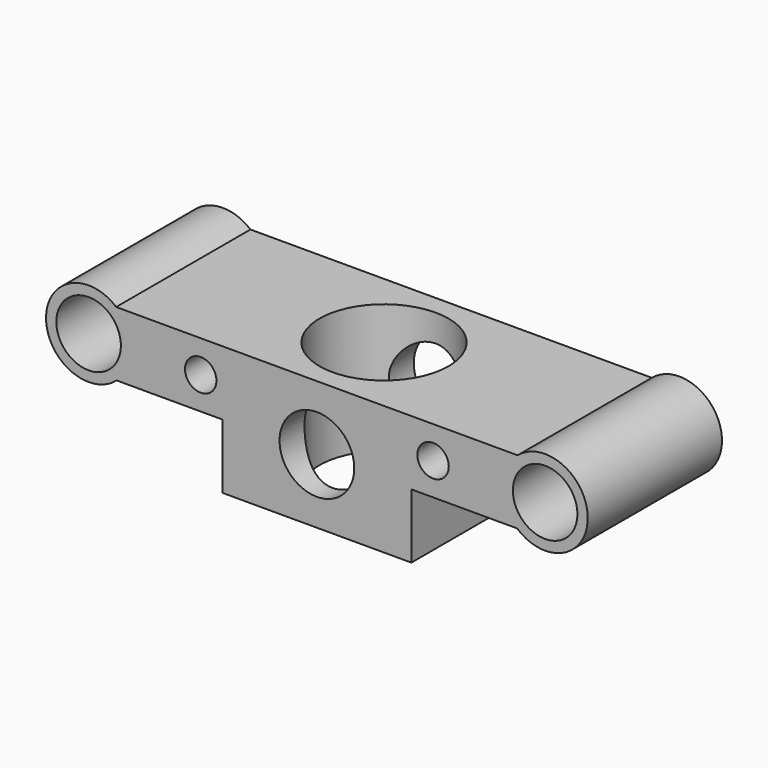
from build123d import *

# Parameters (mm, degrees)
SKETCH002_R     = 2.5
PAD002_DEPTH    = 13
SKETCH_W        = 35
SKETCH_H        = 13
PAD_DEPTH       = 5
SKETCH003_R     = 3.3
PAD003_DEPTH    = 13
SKETCH005_W     = 14.63643
SKETCH005_H     = 13
PAD004_DEPTH    = 5
SKETCH004_R     = 5
POCKET_DEPTH    = 10.001
SKETCH006_R     = 2.893254
POCKET001_DEPTH = 13.001
SKETCH007_R     = 1.218023
POCKET002_DEPTH = 103.479644


with BuildPart() as pad002:
    # Sketch002 → Pad002 (new body)
    with BuildSketch(Plane.XZ.offset(6.5)):
        with Locations((17.683945, 2.483897)):
            Circle(SKETCH002_R)
    extrude(amount=-PAD002_DEPTH)


with BuildPart() as part_mirroring001:
    # Part__Mirroring001: instance of Pad002
    add(pad002.part.mirror(Plane(origin=(0, 0, 2.483897), x_dir=(0, -1, 0), z_dir=(1, 0, 0))))


with BuildPart() as scassi:
    # Fusion001 base: copy of Pad002
    add(pad002.part)

    # Fusion001: union Part__Mirroring001
    add(part_mirroring001.part)


with BuildPart() as cut:
    # Sketch → Pad (new body)
    with BuildSketch(Plane.XY):
        Rectangle(SKETCH_W, SKETCH_H)
    extrude(amount=PAD_DEPTH)

    # Sketch003 → Pad003 (new body)
    with BuildSketch(Plane.XZ.offset(6.5)):
        with Locations((17.683945, 2.483897)):
            Circle(SKETCH003_R)
        with Locations((-17.683945, 2.483897)):
            Circle(SKETCH003_R)
    extrude(amount=-PAD003_DEPTH)

    # Cut: cut scassi
    add(scassi.part, mode=Mode.SUBTRACT)


with BuildPart() as multitransform:
    # Sketch005 → Pad004 (new body)
    with BuildSketch(Plane(origin=(0, 0, 0), x_dir=(1, 0, 0), z_dir=(0, 0, -1))):
        Rectangle(SKETCH005_W, SKETCH005_H)
    extrude(amount=PAD004_DEPTH)

    # Fusion002: union Cut
    add(cut.part)

    # Sketch004 → Pocket (cut, through all)
    with BuildSketch(Plane.XY.offset(5)):
        Circle(SKETCH004_R)
    extrude(amount=-POCKET_DEPTH, mode=Mode.SUBTRACT)

    # Sketch006 → Pocket001 (cut, through all)
    with BuildSketch(Plane.XZ.offset(6.5)):
        Circle(SKETCH006_R)
    extrude(amount=-POCKET001_DEPTH, mode=Mode.SUBTRACT)

    # Sketch007 → Pocket002 (cut, through all)
    with BuildSketch(Plane.XZ.offset(6.5)):
        with Locations((9, 2.5)):
            Circle(SKETCH007_R)
    pocket002 = extrude(amount=-POCKET002_DEPTH, mode=Mode.SUBTRACT)

    # Mirrored: Pocket002 across Sketch007 V_Axis
    add(pocket002.mirror(Plane(origin=(0, -6.5, 0), x_dir=(0, -1, 0), z_dir=(1, 0, 0))), mode=Mode.SUBTRACT)


solid = multitransform.part
